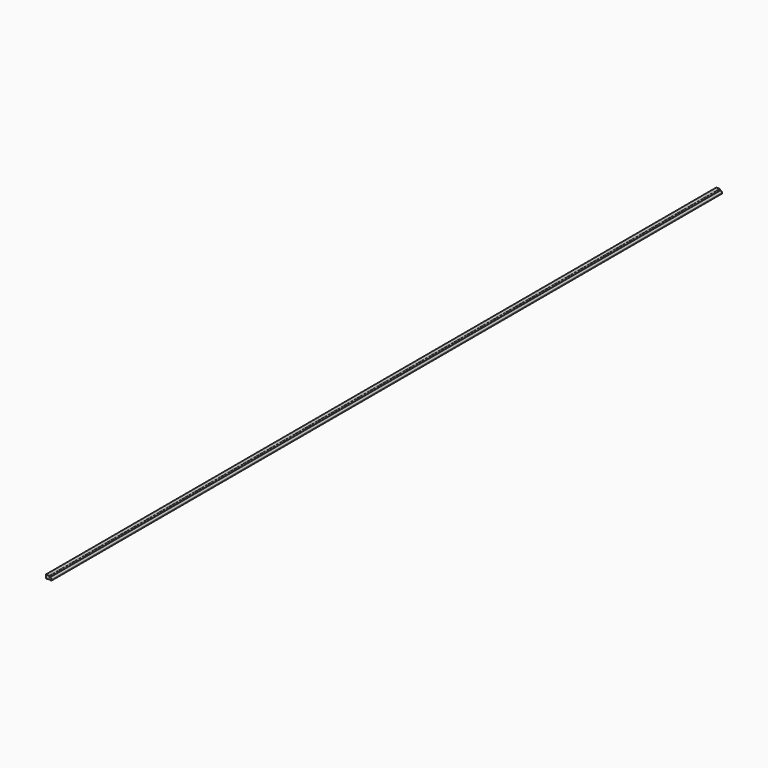
from build123d import *

# Parameters (mm, degrees)
F1_DEPTH = 2438.4


with BuildPart() as f1:
    # F0 (on Front) → F1 (new body)
    with BuildSketch(Plane.XZ):
        with BuildLine():
            Line((-3.144405, 0), (0, 0))
            Line((0, 0), (0, 3.0734))
            ThreePointArc((0, 3.0734), (-0.929936, 5.318464), (-3.175, 6.2484))
            Line((-3.175, 6.2484), (-5.4229, 6.2484))
            Line((-5.4229, 6.2484), (-5.4229, 8.550655))
            ThreePointArc((-5.4229, 8.550655), (-5.857545, 9.652092), (-6.927225, 10.159897))
            Line((-6.927225, 10.159897), (-15.9639, 10.7696))
            Line((-15.9639, 10.7696), (-15.9639, 0))
            Line((-15.9639, 0), (-12.026643, 0))
            Line((-12.026643, 0), (-12.026643, 0.503157))
            Line((-12.026643, 0.503157), (-3.144405, 0.503157))
            Line((-3.144405, 0.503157), (-3.144405, 0))
        make_face()
    extrude(amount=F1_DEPTH)


solid = f1.part
